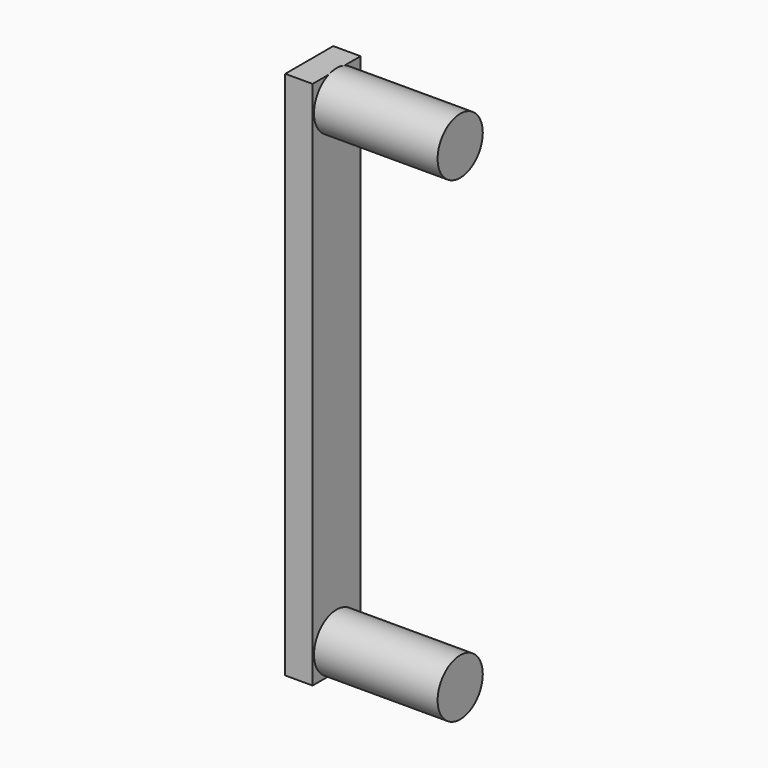
from build123d import *

# Parameters (mm, degrees)
F0_W     = 15.5
F0_H     = 34
F1_DEPTH = 300
F2_R     = 16
F3_DEPTH = 70


with BuildPart() as f1:
    # F0 (on Top) → F1 (new body)
    with BuildSketch(Plane.XY):
        with Locations((7.75, -17)):
            Rectangle(F0_W, F0_H)
    extrude(amount=F1_DEPTH)

    # F2 (on face) → F3 (join)
    with BuildSketch(Plane.YZ.offset(15.5)):
        with Locations((-17, 285)):
            Circle(F2_R)
        with Locations((-17, 15)):
            Circle(F2_R)
    extrude(amount=F3_DEPTH)


solid = f1.part
